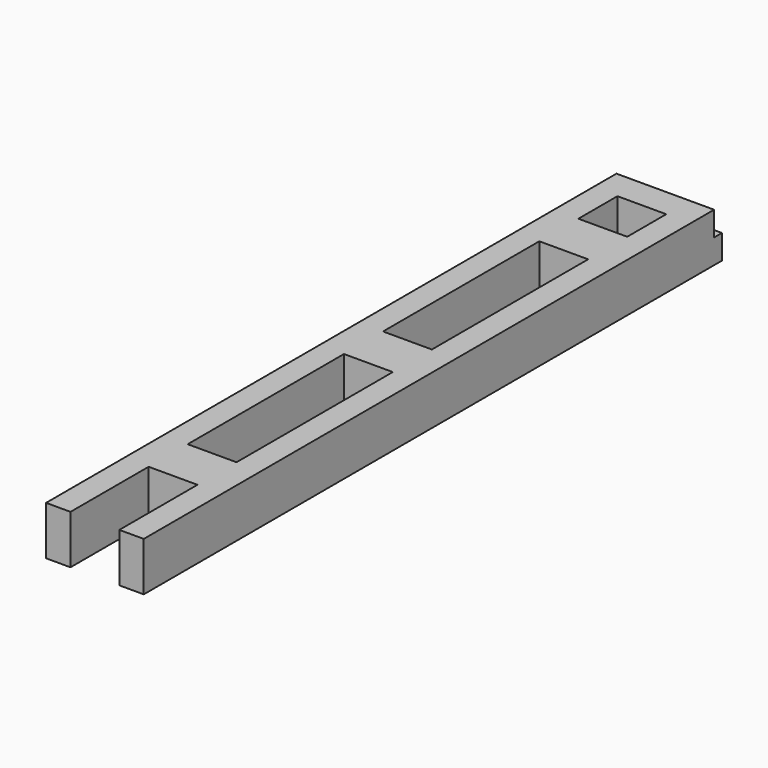
from build123d import *

# Parameters (mm, degrees)
F0_W     = 10
F0_H     = 10
F1_DEPTH = 10
F2_W     = 10
F2_H     = 10
F3_DEPTH = 10
F4_W     = 20
F4_H     = 8
F5_DEPTH = 5
F6_W     = 20
F6_H     = 6
F7_DEPTH = 5


with BuildPart() as f1:
    # F0 (on Top) → F1 (new body)
    with BuildSketch(Plane.XY):
        Polygon((0, 140), (0, 0), (5, 0), (5, 20), (5, 30), (5, 70), (5, 80), (5, 120), (5, 130), (5, 140), align=None)
        with Locations((10, 25)):
            Rectangle(F0_W, F0_H)
        Polygon((15, 30), (15, 20), (15, 0), (20, 0), (20, 140), (15, 140), (15, 130), (15, 120), (15, 80), (15, 70), align=None)
        with Locations((10, 125)):
            Rectangle(F0_W, F0_H)
    extrude(amount=F1_DEPTH)

    # F2 (on Top) → F3 (join)
    with BuildSketch(Plane.XY):
        with Locations((10, 75)):
            Rectangle(F2_W, F2_H)
    extrude(amount=F3_DEPTH)

    # F4 (on Top) → F5 (join)
    with BuildSketch(Plane.XY):
        with Locations((10, 144)):
            Rectangle(F4_W, F4_H)
    extrude(amount=F5_DEPTH)

    # F6 (on face) → F7 (join)
    with BuildSketch(Plane.XY.offset(5)):
        with Locations((10, 143)):
            Rectangle(F6_W, F6_H)
    extrude(amount=F7_DEPTH)


solid = f1.part
